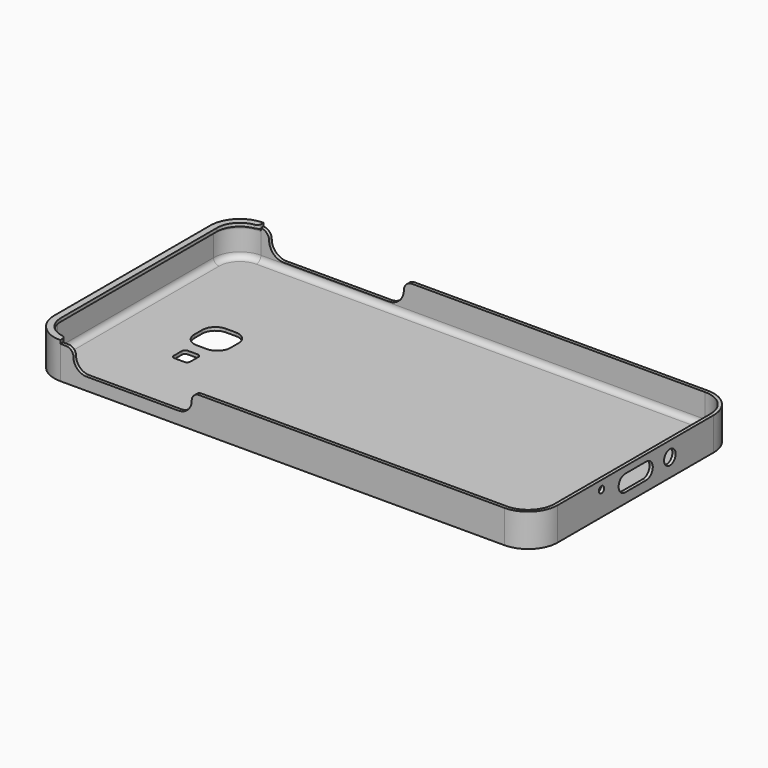
from build123d import *

# Parameters (mm, degrees)
PAD_DEPTH       = 10
PAD001_DEPTH    = 1
POCKET_DEPTH    = 5
SKETCH003_R     = 2.2
SKETCH003_R_2   = 1
POCKET001_DEPTH = 5
POCKET002_DEPTH = 5
FILLET_R        = 1.7
POCKET003_DEPTH = 5
PAD002_DEPTH    = 1
FILLET001_R     = 0.9


with BuildPart() as part:
    # Sketch → Pad (new body)
    with BuildSketch(Plane.XY):
        with BuildLine():
            Line((-67.575, 38.65), (67.575, 38.65))
            ThreePointArc((76.575, 29.65), (73.938961, 36.013961), (67.575, 38.65))
            Line((76.575, 29.65), (76.575, -29.65))
            ThreePointArc((67.575, -38.65), (73.938961, -36.013961), (76.575, -29.65))
            Line((67.575, -38.65), (-67.575, -38.65))
            ThreePointArc((-76.575, -29.65), (-73.938961, -36.013961), (-67.575, -38.65))
            Line((-76.575, -29.65), (-76.575, 29.65))
            ThreePointArc((-67.575, 38.65), (-73.938961, 36.013961), (-76.575, 29.65))
        make_face()
        with BuildLine():
            Line((-67.575, 37.65), (67.575, 37.65))
            ThreePointArc((75.575, 29.65), (73.231854, 35.306854), (67.575, 37.65))
            Line((75.575, 29.65), (75.575, -29.65))
            ThreePointArc((67.575, -37.65), (73.231854, -35.306854), (75.575, -29.65))
            Line((67.575, -37.65), (-67.575, -37.65))
            ThreePointArc((-75.575, -29.65), (-73.231854, -35.306854), (-67.575, -37.65))
            Line((-75.575, -29.65), (-75.575, 29.65))
            ThreePointArc((-67.575, 37.65), (-73.231854, 35.306854), (-75.575, 29.65))
        make_face(mode=Mode.SUBTRACT)
    extrude(amount=PAD_DEPTH)

    # Sketch001 (on Face17 of Pad) → Pad001 (join)
    with BuildSketch(Plane(origin=(0, 0, 0), x_dir=(1, 0, 0), z_dir=(0, 0, -1))):
        with BuildLine():
            ThreePointArc((-67.575, 38.65), (-73.938961, 36.013961), (-76.575, 29.65))
            Line((-76.575, 29.65), (-76.575, -29.65))
            ThreePointArc((-76.575, -29.65), (-73.938961, -36.013961), (-67.575, -38.65))
            Line((-67.575, -38.65), (67.575021, -38.65))
            ThreePointArc((67.575021, -38.65), (73.93896, -36.013962), (76.575, -29.650024))
            Line((76.575, -29.650024), (76.575, 29.65))
            ThreePointArc((76.575, 29.65), (73.938965, 36.013957), (67.575011, 38.65))
            Line((-67.575, 38.65), (67.575011, 38.65))
        make_face()
    extrude(amount=-PAD001_DEPTH)

    # Sketch002 (on Face22 of Pad001) → Pocket (cut)
    with BuildSketch(Plane.XZ.offset(38.65)):
        with BuildLine():
            ThreePointArc((-63.575, 7.8), (-62.403427, 4.971573), (-59.575, 3.8))
            Line((-59.575, 3.8), (-31.575, 3.8))
            ThreePointArc((-31.575, 3.8), (-28.746573, 4.971573), (-27.575, 7.8))
            ThreePointArc((-25.375, 10), (-26.930635, 9.355635), (-27.575, 7.8))
            Line((-65.775, 10), (-25.375, 10))
            ThreePointArc((-63.575, 7.8), (-64.219365, 9.355635), (-65.775, 10))
        make_face()
    extrude(amount=-POCKET_DEPTH, mode=Mode.SUBTRACT)

    # Sketch003 (on Face20 of Pocket) → Pocket001 (cut)
    with BuildSketch(Plane.YZ.offset(76.575)):
        with Locations((13, 5.5)):
            Circle(SKETCH003_R)
        with Locations((-13, 7.4)):
            Circle(SKETCH003_R_2)
        with BuildLine():
            ThreePointArc((-4, 8), (-6.5, 5.5), (-4, 3))
            Line((-4, 3), (4, 3))
            ThreePointArc((4, 3), (6.5, 5.5), (4, 8))
            Line((-4, 8), (4, 8))
        make_face()
    extrude(amount=-POCKET001_DEPTH, mode=Mode.SUBTRACT)

    # Sketch004 (on Face18 of Pocket001) → Pocket002 (cut)
    with BuildSketch(Plane(origin=(0, 38.65, 0), x_dir=(-1, 0, 0), z_dir=(0, 1, 0))):
        with BuildLine():
            ThreePointArc((60.575, 3), (63.756981, 4.318019), (65.075, 7.5))
            ThreePointArc((67.575, 10), (65.807233, 9.267767), (65.075, 7.5))
            Line((21.575, 10), (67.575, 10))
            ThreePointArc((24.075, 7.5), (23.342767, 9.267767), (21.575, 10))
            ThreePointArc((24.075, 7.5), (25.393019, 4.318019), (28.575, 3))
            Line((28.575, 3), (60.575, 3))
        make_face()
    extrude(amount=-POCKET002_DEPTH, mode=Mode.SUBTRACT)

    # Fillet
    fillet_edges = [part.edges().sort_by_distance(p)[0] for p in [
        (-75.575, 0, 1),
    ]]
    fillet(fillet_edges, radius=FILLET_R)

    # Sketch005 (on Face56 of Fillet) → Pocket003 (cut)
    with BuildSketch(Plane(origin=(0, 0, 0), x_dir=(1, 0, 0), z_dir=(0, 0, -1))):
        with BuildLine():
            Line((-52.5, -5.5), (-49.5, -5.5))
            ThreePointArc((-49.5, -5.5), (-46.671573, -4.328427), (-45.5, -1.5))
            Line((-45.5, -1.5), (-45.5, 1.5))
            ThreePointArc((-45.5, 1.5), (-46.671573, 4.328427), (-49.5, 5.5))
            Line((-49.5, 5.5), (-52.5, 5.5))
            ThreePointArc((-52.5, 5.5), (-55.328427, 4.328427), (-56.5, 1.5))
            Line((-56.5, 1.5), (-56.5, -1.5))
            ThreePointArc((-56.5, -1.5), (-55.328427, -4.328427), (-52.5, -5.5))
        make_face()
        with BuildLine():
            Line((-52.5, 9), (-49.5, 9))
            ThreePointArc((-49.5, 9), (-48.792893, 9.292893), (-48.5, 10))
            Line((-48.5, 10), (-48.5, 13))
            ThreePointArc((-48.5, 13), (-48.792893, 13.707107), (-49.5, 14))
            Line((-49.5, 14), (-52.5, 14))
            ThreePointArc((-52.5, 14), (-53.207107, 13.707107), (-53.5, 13))
            Line((-53.5, 13), (-53.5, 10))
            ThreePointArc((-53.5, 10), (-53.207107, 9.292893), (-52.5, 9))
        make_face()
    extrude(amount=-POCKET003_DEPTH, mode=Mode.SUBTRACT)

    # Sketch006 (on Face7 of Pocket003) → Pad002 (join)
    with BuildSketch(Plane.XY.offset(10)):
        with BuildLine():
            ThreePointArc((-76.575, -29.65), (-73.938961, -36.013961), (-67.575, -38.65))
            Line((-67.575, -38.65), (-67.575, -37.76172))
            ThreePointArc((-67.575, -37.76172), (-67.866504, -36.977734), (-68.59939, -36.574639))
            ThreePointArc((-74.575, -29.65), (-72.874563, -34.223252), (-68.59939, -36.574639))
            Line((-74.575, 29.65), (-74.575, -29.65))
            ThreePointArc((-68.59939, 36.574639), (-72.874563, 34.223252), (-74.575, 29.65))
            ThreePointArc((-68.59939, 36.574639), (-67.866504, 36.977734), (-67.575, 37.76172))
            Line((-67.575, 37.76172), (-67.575, 38.65))
            ThreePointArc((-67.575, 38.65), (-73.938961, 36.013961), (-76.575, 29.65))
            Line((-76.575, 29.65), (-76.575, -29.65))
        make_face()
    extrude(amount=PAD002_DEPTH)

    # Fillet001
    fillet001_edges = [part.edges().sort_by_distance(p)[0] for p in [
        (-75.575, 0, 10),
    ]]
    fillet(fillet001_edges, radius=FILLET001_R)


solid = part.part
